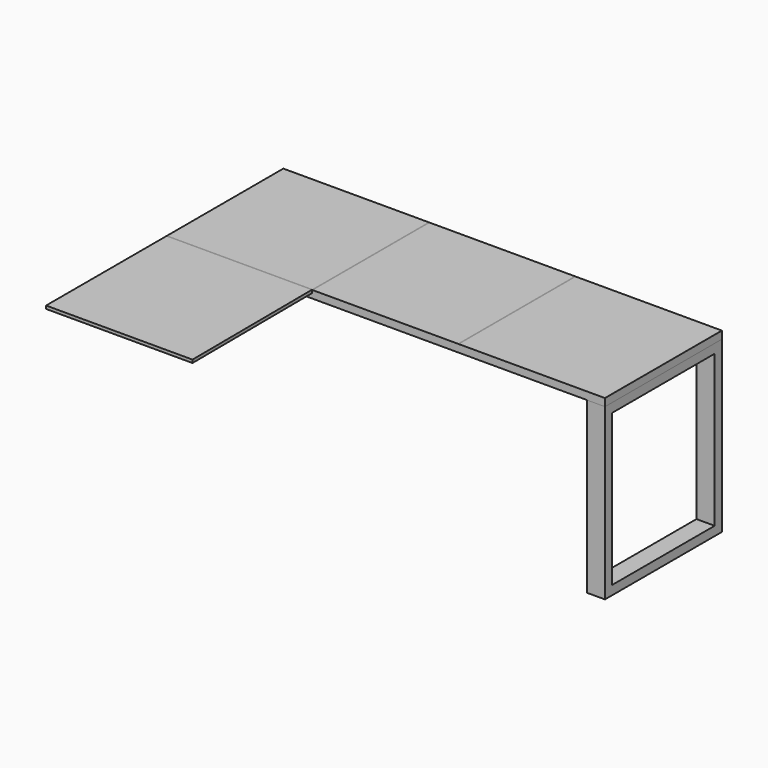
from build123d import *

# Parameters (mm, degrees)
F0_W      = 609.6
F0_H      = 609.6
F1_DEPTH  = 12.7
F2_W      = 1835.15
F2_H      = 609.6
F3_DEPTH  = 19.05
F4_W      = 609.6
F4_H      = 31.75
F5_DEPTH  = 3.175
F6_W      = 1838.325
F6_H      = 31.75
F7_DEPTH  = 3.175
F8_W      = 3.175
F8_H      = 609.6
F9_DEPTH  = 12.7
F10_W     = 612.775
F10_H     = 711.2
F10_W_2   = 536.575
F10_H_2   = 635
F11_DEPTH = 76.2


with BuildPart() as f1:
    # F0 (on Top) → F1 (new body)
    with BuildSketch(Plane.XY):
        Polygon((609.6, -304.8), (609.6, 304.8), (0, 304.8), (0, -304.8), (0, -938.357413), (613.716185, -938.357413), align=None)
        with Locations((917.575, 0)):
            Rectangle(F0_W, F0_H)
        with Locations((1530.35, 0)):
            Rectangle(F0_W, F0_H)
    extrude(amount=F1_DEPTH)


with BuildPart() as f3:
    # F2 (on Top) → F3 (new body)
    with BuildSketch(Plane.XY):
        with Locations((917.575, 0)):
            Rectangle(F2_W, F2_H)
    extrude(amount=-F3_DEPTH)


with BuildPart() as f5:
    # F4 (on face) → F5 (new body)
    with BuildSketch(Plane.YZ.offset(1835.15)):
        with Locations((0, -3.175)):
            Rectangle(F4_W, F4_H)
    extrude(amount=F5_DEPTH)


with BuildPart() as f7:
    # F6 (on face) → F7 (new body)
    with BuildSketch(Plane.XZ.offset(304.8)):
        with Locations((919.1625, -3.175)):
            Rectangle(F6_W, F6_H)
    extrude(amount=F7_DEPTH)


with BuildPart() as f9:
    # F8 (on Top) → F9 (new body)
    with BuildSketch(Plane.XY):
        with Locations((611.1875, 0)):
            Rectangle(F8_W, F8_H)
        with Locations((1223.9625, 0)):
            Rectangle(F8_W, F8_H)
    extrude(amount=F9_DEPTH)


with BuildPart() as f11:
    # F10 (on face) → F11 (new body)
    with BuildSketch(Plane.YZ.offset(1838.325)):
        with Locations((-1.5875, -374.65)):
            Rectangle(F10_W, F10_H)
        with Locations((-1.5875, -374.65)):
            Rectangle(F10_W_2, F10_H_2, mode=Mode.SUBTRACT)
    extrude(amount=-F11_DEPTH)


solid = Compound([f1.part, f3.part, f5.part, f7.part, f9.part, f11.part])
